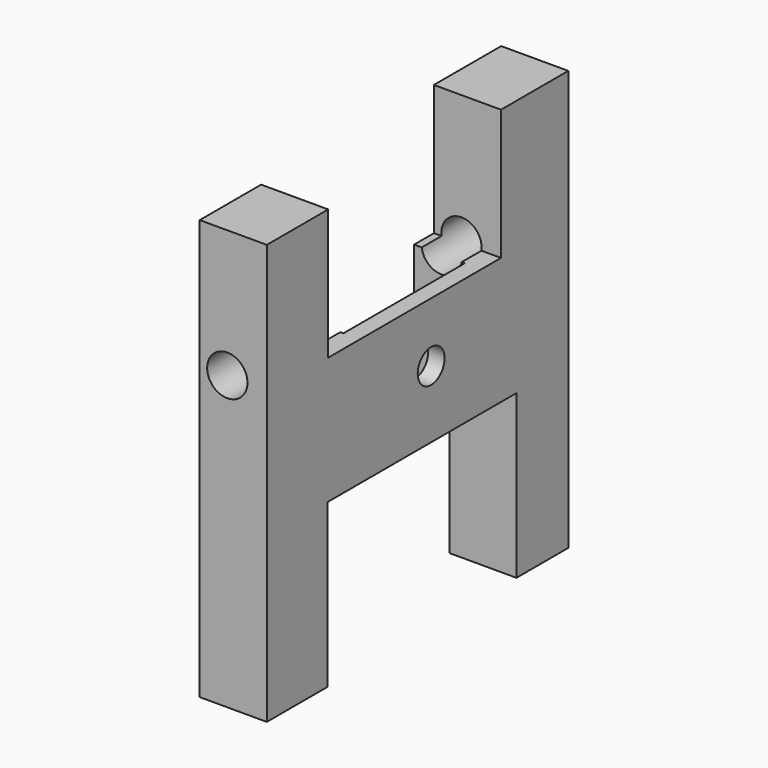
from build123d import *

# Parameters (mm, degrees)
F0_W     = 13.2459662855
F0_H     = 82.9233899713
F1_DEPTH = 74.4
F2_W     = 42.6411293447
F2_H     = 25.7661305368
F2_W_2   = 46.6330666095
F2_H_2   = 32.1169355884
F2_H_3   = 1.9959695637
F3_DEPTH = 25
F4_W     = 29.9395192415
F4_H     = 32.2983870283
F4_H_2   = 4.173386842
F4_H_3   = 25.040323846
F5_DEPTH = 10
F6_R     = 3.9795460227
F7_DEPTH = 90.9
F8_R     = 3.3126964472
F9_DEPTH = 59.4


with BuildPart() as f1:
    # F0 (on Front) → F1 (new body)
    with BuildSketch(Plane.XZ):
        with Locations((-51.7137106508, 3.0846782029)):
            Rectangle(F0_W, F0_H)
    extrude(amount=F1_DEPTH)

    # F2 (on face) → F3 (cut)
    with BuildSketch(Plane(origin=(-58.3366937935, 0, 0), x_dir=(0, -1, 0), z_dir=(-1, 0, 0))):
        with Locations((37.9233863205, 31.6633079201)):
            Rectangle(F2_W, F2_H)
        with Locations((36.1088728532, -22.3185489886)):
            Rectangle(F2_W_2, F2_H_2)
        with Locations((37.9233863205, 45.5443579704)):
            Rectangle(F2_W, F2_H_3)
    extrude(amount=-F3_DEPTH, mode=Mode.SUBTRACT)

    # F4 (on face) → F5 (cut)
    with BuildSketch(Plane(origin=(-58.3366937935, 0, 0), x_dir=(0, -1, 0), z_dir=(-1, 0, 0))):
        with Locations((36.4717757329, -22.4092747085)):
            Rectangle(F4_W, F4_H)
        with Locations((36.4717757329, 20.8669360727)):
            Rectangle(F4_W, F4_H_2)
        with Locations((36.4717757329, 6.2600807287)):
            Rectangle(F4_W, F4_H_3)
    extrude(amount=-F5_DEPTH, mode=Mode.SUBTRACT)

    # F6 (on face) → F7 (cut)
    with BuildSketch(Plane.XZ.offset(74.4)):
        with Locations((-52.8931468725, 19.3245988339)):
            Circle(F6_R)
    extrude(amount=-F7_DEPTH, mode=Mode.SUBTRACT)

    # F8 (on face) → F9 (cut)
    with BuildSketch(Plane(origin=(-48.3366937935, 0, 0), x_dir=(0, -1, 0), z_dir=(-1, 0, 0))):
        with Locations((33.8408090174, 7.0165661164)):
            Circle(F8_R)
    extrude(amount=-F9_DEPTH, mode=Mode.SUBTRACT)


solid = f1.part
